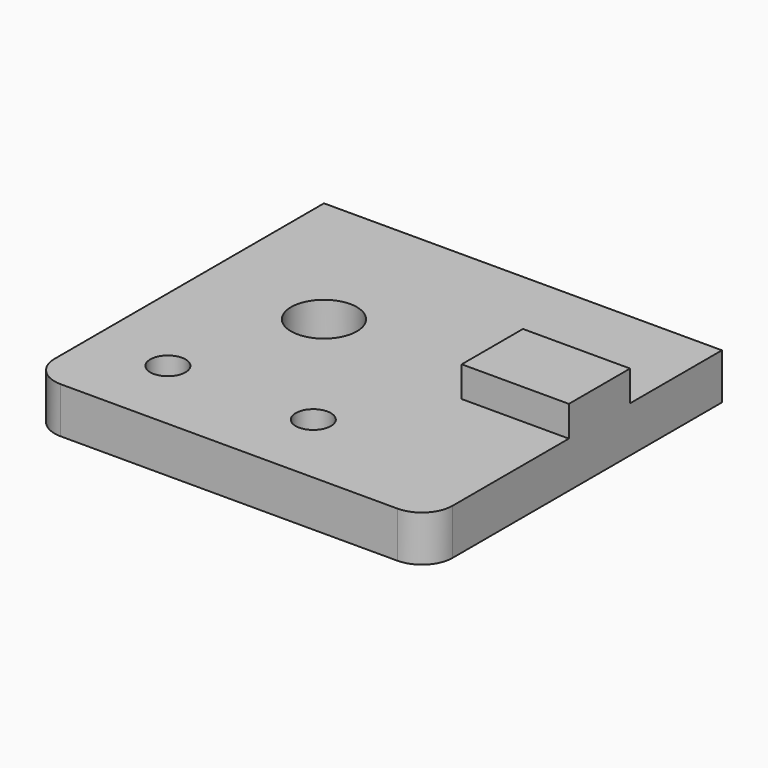
from build123d import *

# Parameters (mm, degrees)
F0_W     = 26
F0_H     = 24
F0_R     = 1.15
F0_R_2   = 2.15
F1_DEPTH = 3
F2_W     = 7
F2_H     = 5
F3_DEPTH = 2
F4_R     = 2


with BuildPart() as f1:
    # F0 (on Top) → F1 (new body)
    with BuildSketch(Plane.XY):
        with Locations((13, -12)):
            Rectangle(F0_W, F0_H)
        with Locations((5, -19)):
            Circle(F0_R, mode=Mode.SUBTRACT)
        with Locations((14.5, -19)):
            Circle(F0_R, mode=Mode.SUBTRACT)
        with Locations((8, -10)):
            Circle(F0_R_2, mode=Mode.SUBTRACT)
    extrude(amount=F1_DEPTH)

    # F2 (on face) → F3 (join)
    with BuildSketch(Plane.XY.offset(3)):
        with Locations((22.5, -10)):
            Rectangle(F2_W, F2_H)
    extrude(amount=F3_DEPTH)

    # F4
    f4_edges = [f1.edges().sort_by_distance(p)[0] for p in [
        (0, -24, 1.5),
        (26, -24, 1.5),
    ]]
    fillet(f4_edges, radius=F4_R)


solid = f1.part
